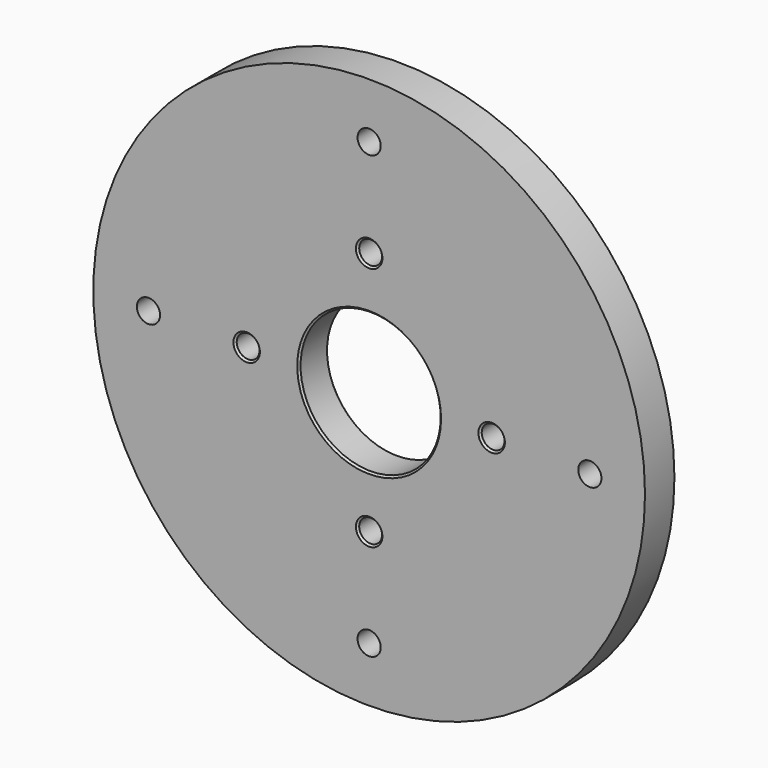
from build123d import *

# Parameters (mm, degrees)
F0_R     = 75
F0_R_2   = 19.05
F1_DEPTH = 10
F2_R     = 3.1
F3_DEPTH = 10
F4_SIZE  = 0.5
F5_R     = 3.15
F6_DEPTH = 25


with BuildPart() as f1:
    # F0 (on Front) → F1 (new body)
    with BuildSketch(Plane.XZ):
        Circle(F0_R)
        Circle(F0_R_2, mode=Mode.SUBTRACT)
    extrude(amount=F1_DEPTH)

    # F2 (on face) → F3 (cut, through all)
    with BuildSketch(Plane.XZ):
        with Locations((0, 33.3047293939)):
            Circle(F2_R)
        with Locations((33.3047293939, 0)):
            Circle(F2_R)
        with Locations((0, -33.3047293939)):
            Circle(F2_R)
        with Locations((-33.3047293939, 0)):
            Circle(F2_R)
    extrude(amount=F3_DEPTH, mode=Mode.SUBTRACT)

    # F4
    f4_edges = [f1.edges().sort_by_distance(p)[0] for p in [
        (-36.404729, -10, 0),
        (-3.1, -10, 33.304729),
        (30.204729, -10, 0),
        (-3.1, -10, -33.304729),
        (-3.1, 0, -33.304729),
        (-36.404729, 0, 0),
        (-3.1, 0, 33.304729),
        (30.204729, 0, 0),
        (-19.05, 0, 0),
        (-19.05, -10, 0),
    ]]
    chamfer(f4_edges, length=F4_SIZE)

    # F5 (on face) → F6 (cut)
    with BuildSketch(Plane.XZ):
        with Locations((60, 0)):
            Circle(F5_R)
        with Locations((0, 60)):
            Circle(F5_R)
        with Locations((-60, 0)):
            Circle(F5_R)
        with Locations((0, -60)):
            Circle(F5_R)
    extrude(amount=F6_DEPTH, mode=Mode.SUBTRACT)


solid = f1.part
